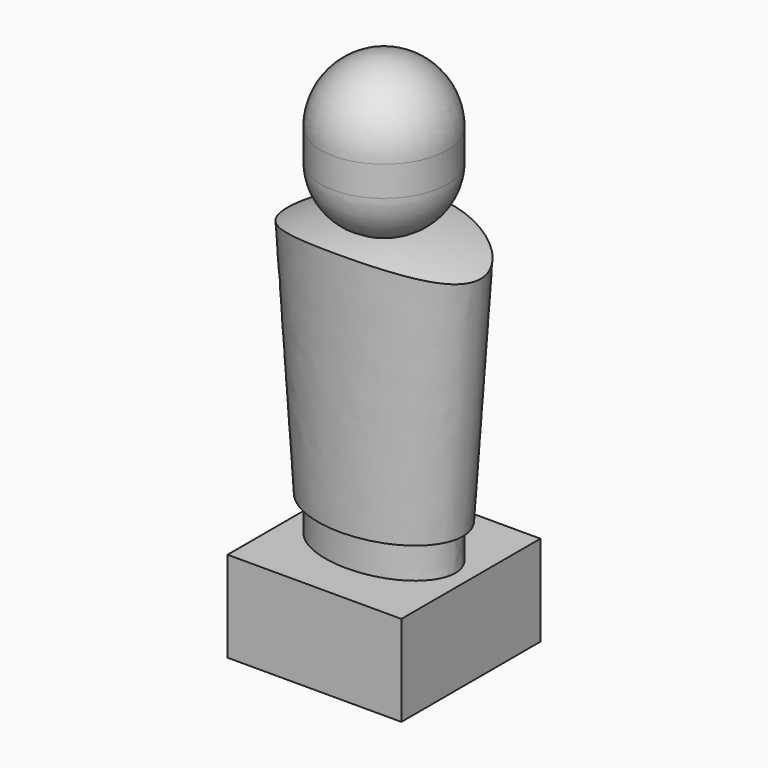
from build123d import *

# Parameters (mm, degrees)
F0_W     = 14.605
F0_H     = 14.605
F1_DEPTH = 7.62
F3_DEPTH = 2.921


with BuildPart() as f1:
    # F0 (on Top) → F1 (new body)
    with BuildSketch(Plane.XY):
        Rectangle(F0_W, F0_H)
    extrude(amount=F1_DEPTH)

    # F2 (on face) → F3 (join)
    with BuildSketch(Plane.XY.offset(7.62)):
        with BuildLine():
            add(Edge.make_bspline(
                [(-5.9944, 0), (-5.9944, -6.8190840294), (2.9972, -3.4095420147), (11.9888, 0), (2.9972, 3.4095420147), (-5.9944, 6.8190840294), (-5.9944, 0)],
                knots=[0, 0, 0, 2.0943951024, 2.0943951024, 4.1887902048, 4.1887902048, 6.2831853072, 6.2831853072, 6.2831853072], degree=2, weights=[1, 0.5, 1, 0.5, 1, 0.5, 1]))
        make_face()
    extrude(amount=F3_DEPTH)

    # F5 (on face) → F7 section 0
    with BuildSketch(Plane.XY.offset(10.541)):
        with BuildLine():
            add(Edge.make_bspline(
                [(6.6294, 0), (6.6294, 7.9189362922), (-3.3147, 3.9594681461), (-13.2588, 0), (-3.3147, -3.9594681461), (6.6294, -7.9189362922), (6.6294, 0)],
                knots=[0, 0, 0, 2.0943951024, 2.0943951024, 4.1887902048, 4.1887902048, 6.2831853072, 6.2831853072, 6.2831853072], degree=2, weights=[1, 0.5, 1, 0.5, 1, 0.5, 1]))
        make_face()
    # F6 (on offset) → F7 section 1
    with BuildSketch(Plane.XY.offset(31.877)):
        with BuildLine():
            add(Edge.make_bspline(
                [(8.255, 0), (8.255, 9.018788555), (-4.1275, 4.5093942775), (-16.51, 0), (-4.1275, -4.5093942775), (8.255, -9.018788555), (8.255, 0)],
                knots=[0, 0, 0, 2.0943951024, 2.0943951024, 4.1887902048, 4.1887902048, 6.2831853072, 6.2831853072, 6.2831853072], degree=2, weights=[1, 0.5, 1, 0.5, 1, 0.5, 1]))
        make_face()
    loft()

    # F8 (on Front) → F9 (revolve, intersect)
    with BuildSketch(Plane.XZ):
        with BuildLine():
            Line((7.3025, 0), (15.24, 24.422544986))
            ThreePointArc((15.24, 24.422544986), (0, 31.8560935557), (-15.24, 24.422544986))
            Line((-15.24, 24.422544986), (-7.3025, 0))
            Line((-7.3025, 0), (7.3025, 0))
        make_face()
    revolve(axis=Axis((0, 0, 0), (-1, 0, 0)), mode=Mode.INTERSECT)

    # F10 (on Front) → F11 (revolve)
    with BuildSketch(Plane.XZ):
        with BuildLine():
            ThreePointArc((-5.2916666667, 36.1427071672), (-3.7126915786, 32.5537193001), (0, 31.2928))
            Line((0, 31.2928), (0, 43.9928))
            ThreePointArc((0, 43.9928), (-3.7440562275, 42.4184357163), (-5.2916666667, 38.6632417318))
            Line((-5.2916666667, 38.6632417318), (-5.2916666667, 36.1427071672))
        make_face()
    revolve(axis=Axis((0, 0, 37.6428), (0, 0, 1)))


solid = f1.part
